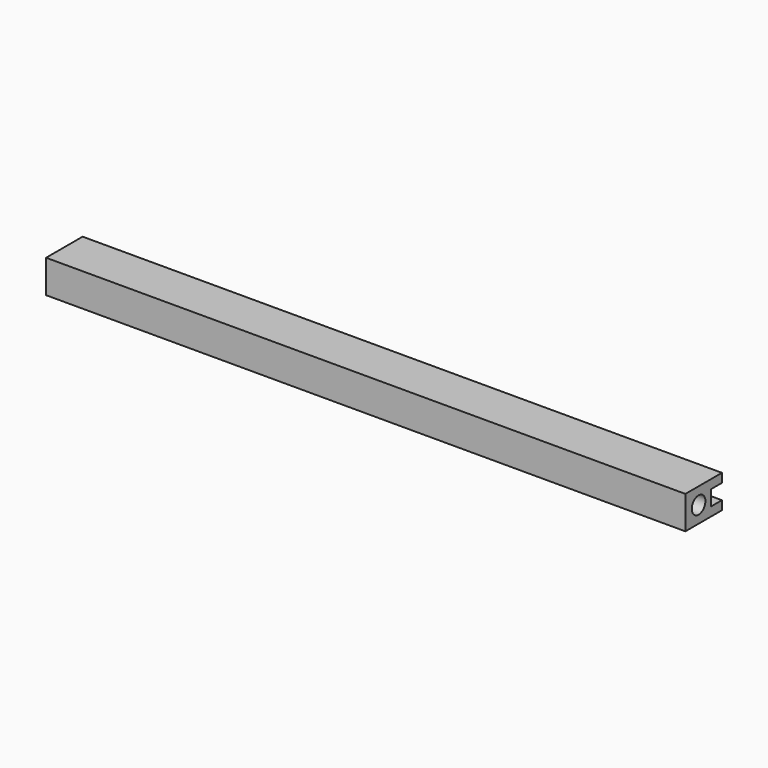
from build123d import *

# Parameters (mm, degrees)
F1_DEPTH = 22.86
F2_W     = 320.04
F2_H     = 7.62
F3_DEPTH = 6.985
F4_R     = 4.269801
F5_DEPTH = 160.02


with BuildPart() as f1:
    # F0 (on Front) → F1 (new body)
    with BuildSketch(Plane.XZ):
        Polygon((160.02, 8.255), (-160.02, 8.255), (-160.02, 3.81), (-160.02, -3.81), (-160.02, -8.255), (160.02, -8.255), (160.02, -3.81), (160.02, 3.81), align=None)
    extrude(amount=F1_DEPTH)

    # F2 (on Front) → F3 (cut)
    with BuildSketch(Plane.XZ):
        Rectangle(F2_W, F2_H)
    extrude(amount=F3_DEPTH, mode=Mode.SUBTRACT)

    # F4 (on Right) → F5 (cut, symmetric)
    with BuildSketch(Plane.YZ):
        with Locations((-14.605, 0)):
            Circle(F4_R)
    extrude(amount=F5_DEPTH, both=True, mode=Mode.SUBTRACT)


solid = f1.part
